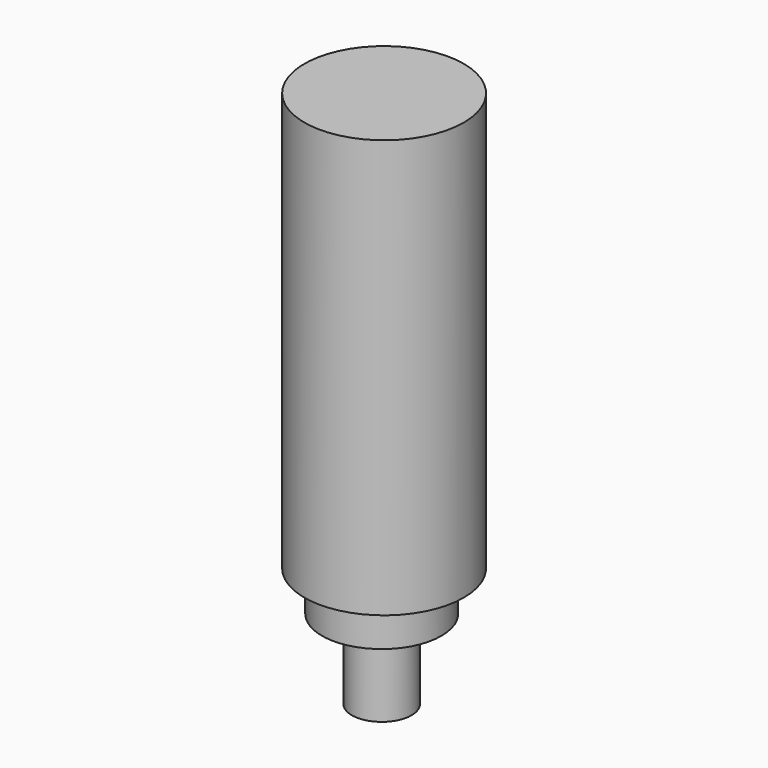
from build123d import *

# Parameters (mm, degrees)
F0_R     = 40
F1_DEPTH = 105
F2_R     = 30
F3_DEPTH = 20.5
F4_R     = 15
F5_DEPTH = 40


with BuildPart() as f1:
    # F0 (on Top) → F1 (new body, symmetric)
    with BuildSketch(Plane.XY):
        with Locations((1.18393, 0)):
            Circle(F0_R)
    extrude(amount=F1_DEPTH, both=True)

    # F2 (on face) → F3 (join)
    with BuildSketch(Plane(origin=(0, 0, -105), x_dir=(1, 0, 0), z_dir=(0, 0, -1))):
        Circle(F2_R)
    extrude(amount=F3_DEPTH)

    # F4 (on face) → F5 (join)
    with BuildSketch(Plane(origin=(0, 0, -125.5), x_dir=(1, 0, 0), z_dir=(0, 0, -1))):
        Circle(F4_R)
    extrude(amount=F5_DEPTH)


solid = f1.part
